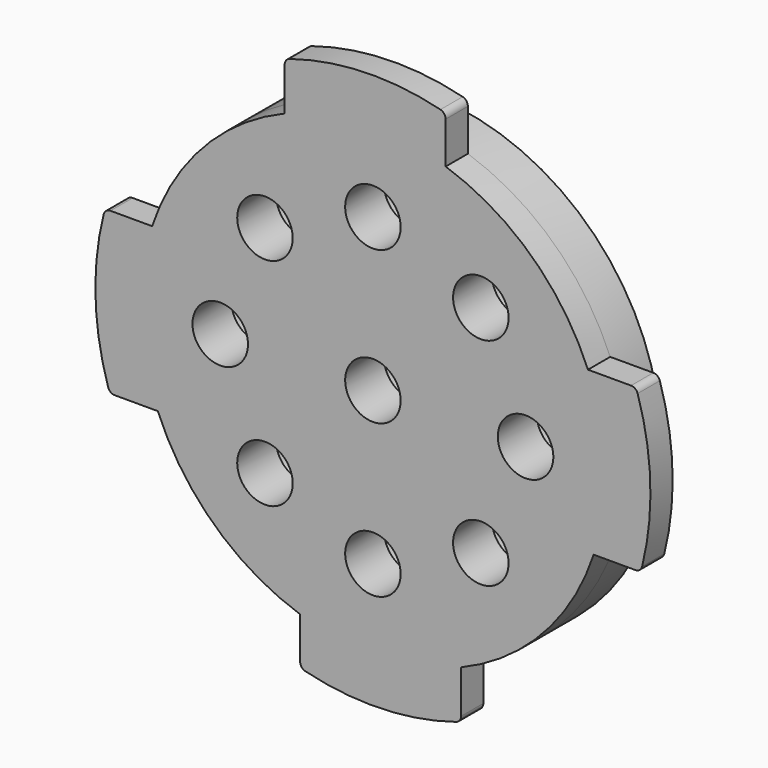
from build123d import *

# Parameters (mm, degrees)
F0_R     = 16.75
F1_DEPTH = 5
F3_DEPTH = 2
F4_R     = 2
F5_DEPTH = 5
F6_R     = 2.8491120017
F6_R_2   = 3
F6_R_3   = 2.9757166717
F6_R_4   = 2.5074273039
F6_R_5   = 2.7276966812
F6_R_6   = 2.9574204399
F7_DEPTH = 1.5
F8_R     = 0.5


with BuildPart() as f1:
    # F0 (on Front) → F1 (new body)
    with BuildSketch(Plane.XZ):
        Circle(F0_R)
    extrude(amount=F1_DEPTH)

    # F2 (on face) → F3 (join)
    with BuildSketch(Plane.XZ.offset(5)):
        with BuildLine():
            Line((5.2447166905, 15.9077165815), (5.2447166905, 19.3000763428))
            ThreePointArc((5.2447166905, 19.3000763428), (-0.5802396301, 19.9915812774), (-6.3552833095, 18.9633956362))
            Line((-6.3552833095, 18.9633956362), (-6.3552833095, 15.4975118666))
            ThreePointArc((-6.3552833095, 15.4975118666), (-0.5919514598, 16.7395368356), (5.2447166905, 15.9077165815))
        make_face()
        with BuildLine():
            ThreePointArc((15.4975118666, 6.3552833095), (11.418067119, 12.2552129017), (5.2447166905, 15.9077165815))
            ThreePointArc((5.2447166905, 15.9077165815), (-0.5919514598, 16.7395368356), (-6.3552833095, 15.4975118666))
            ThreePointArc((-6.3552833095, 15.4975118666), (-12.2552129017, 11.418067119), (-15.9077165815, 5.2447166905))
            ThreePointArc((-15.9077165815, 5.2447166905), (-16.7395368356, -0.5919514598), (-15.4975118666, -6.3552833095))
            ThreePointArc((-15.4975118666, -6.3552833095), (-11.418067119, -12.2552129017), (-5.2447166905, -15.9077165815))
            ThreePointArc((-5.2447166905, -15.9077165815), (0.5919514598, -16.7395368356), (6.3552833095, -15.4975118666))
            ThreePointArc((6.3552833095, -15.4975118666), (12.2552129017, -11.418067119), (15.9077165815, -5.2447166905))
            ThreePointArc((15.9077165815, -5.2447166905), (16.5380886553, -2.6559600205), (16.75, 0))
            ThreePointArc((16.75, 0), (16.4338952133, 3.2387633623), (15.4975118666, 6.3552833095))
        make_face()
        with BuildLine():
            Line((18.9633956362, 6.3552833095), (15.4975118666, 6.3552833095))
            ThreePointArc((15.4975118666, 6.3552833095), (16.4338952133, 3.2387633623), (16.75, 0))
            ThreePointArc((16.75, 0), (16.5380886553, -2.6559600205), (15.9077165815, -5.2447166905))
            Line((15.9077165815, -5.2447166905), (19.3000763428, -5.2447166905))
            ThreePointArc((19.3000763428, -5.2447166905), (19.9915812774, 0.5802396301), (18.9633956362, 6.3552833095))
        make_face()
        with BuildLine():
            ThreePointArc((-15.4975118666, -6.3552833095), (-16.7395368356, -0.5919514598), (-15.9077165815, 5.2447166905))
            Line((-15.9077165815, 5.2447166905), (-19.3000763428, 5.2447166905))
            ThreePointArc((-19.3000763428, 5.2447166905), (-19.9915812774, -0.5802396301), (-18.9633956362, -6.3552833095))
            Line((-18.9633956362, -6.3552833095), (-15.4975118666, -6.3552833095))
        make_face()
        with BuildLine():
            ThreePointArc((6.3552833095, -15.4975118666), (0.5919514598, -16.7395368356), (-5.2447166905, -15.9077165815))
            Line((-5.2447166905, -15.9077165815), (-5.2447166905, -19.3000763428))
            ThreePointArc((-5.2447166905, -19.3000763428), (0.5802396301, -19.9915812774), (6.3552833095, -18.9633956362))
            Line((6.3552833095, -18.9633956362), (6.3552833095, -15.4975118666))
        make_face()
    extrude(amount=-F3_DEPTH)

    # F4 (on face) → F5 (cut, through all)
    with BuildSketch(Plane(origin=(0, 0, 0), x_dir=(-1, 0, 0), z_dir=(0, 1, 0))):
        with Locations((-7.7781745931, 7.7781745931)):
            Circle(F4_R)
        with Locations((-11, 0)):
            Circle(F4_R)
        with Locations((-7.7781745931, -7.7781745931)):
            Circle(F4_R)
        with Locations((0, -11)):
            Circle(F4_R)
        with Locations((7.7781745931, -7.7781745931)):
            Circle(F4_R)
        with Locations((11, 0)):
            Circle(F4_R)
        with Locations((7.7781745931, 7.7781745931)):
            Circle(F4_R)
        Circle(F4_R)
        with Locations((0, 11)):
            Circle(F4_R)
    extrude(amount=-F5_DEPTH, mode=Mode.SUBTRACT)

    # F6 (on face) → F7 (cut)
    with BuildSketch(Plane(origin=(0, 0, 0), x_dir=(-1, 0, 0), z_dir=(0, 1, 0))):
        with Locations((-7.7781745931, 7.7781745931)):
            Circle(F6_R)
        with Locations((-11, 0)):
            Circle(F6_R_2)
        with Locations((-7.7781745931, -7.7781745931)):
            Circle(F6_R_2)
        with Locations((0, -11)):
            Circle(F6_R_3)
        with Locations((7.7781745931, -7.7781745931)):
            Circle(F6_R_4)
        with Locations((11, 0)):
            Circle(F6_R_2)
        Circle(F6_R_5)
        with Locations((7.7781745931, 7.7781745931)):
            Circle(F6_R_6)
        with Locations((0, 11)):
            Circle(F6_R_2)
    extrude(amount=-F7_DEPTH, mode=Mode.SUBTRACT)

    # F8
    f8_edges = [f1.edges().sort_by_distance(p)[0] for p in [
        (5.244717, -4, 19.300076),
        (-6.355283, -4, 18.963396),
        (18.963396, -4, 6.355283),
        (-19.300076, -4, 5.244717),
        (19.300076, -4, -5.244717),
        (-18.963396, -4, -6.355283),
        (6.355283, -4, -18.963396),
        (-5.244717, -4, -19.300076),
    ]]
    fillet(f8_edges, radius=F8_R)


solid = f1.part
